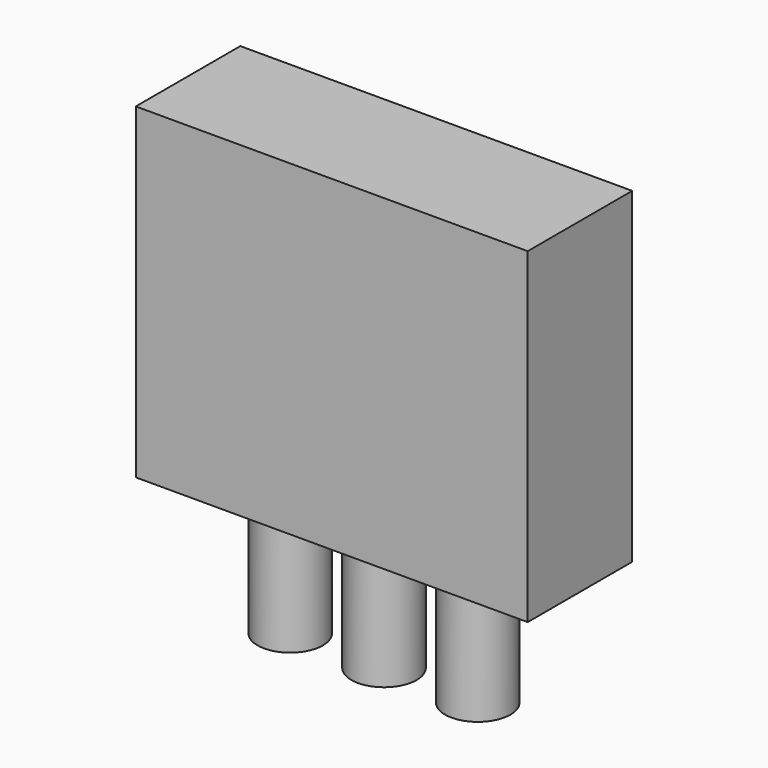
from build123d import *

# Parameters (mm, degrees)
F0_W     = 38.1
F0_H     = 12.7
F1_DEPTH = 6.35
F2_W     = 38.1
F2_H     = 12.7
F3_DEPTH = 38.1
F4_W     = 38.1
F4_H     = 12.7
F4_R     = 3.175
F5_DEPTH = 12.7


with BuildPart() as f1:
    # F0 (on Top) → F1 (new body)
    with BuildSketch(Plane.XY):
        with Locations((3.2120794058, 1.0928753239)):
            Rectangle(F0_W, F0_H)
    extrude(amount=F1_DEPTH)

    # F2 (on face) → F3 (join)
    with BuildSketch(Plane.XY.offset(6.35)):
        with Locations((3.2120794058, 1.0928753239)):
            Rectangle(F2_W, F2_H)
    extrude(amount=F3_DEPTH)

    # F4 (on face) → F5 (cut)
    with BuildSketch(Plane(origin=(0, 0, 0), x_dir=(1, 0, 0), z_dir=(0, 0, -1))):
        with Locations((3.2120794058, -1.0928753239)):
            Rectangle(F4_W, F4_H)
        with Locations((-5.9024819942, -1.0928753239)):
            Circle(F4_R, mode=Mode.SUBTRACT)
        with Locations((3.2120794058, -1.0928753239)):
            Circle(F4_R, mode=Mode.SUBTRACT)
        with Locations((12.3266408058, -1.0928753239)):
            Circle(F4_R, mode=Mode.SUBTRACT)
    extrude(amount=-F5_DEPTH, mode=Mode.SUBTRACT)


solid = f1.part
